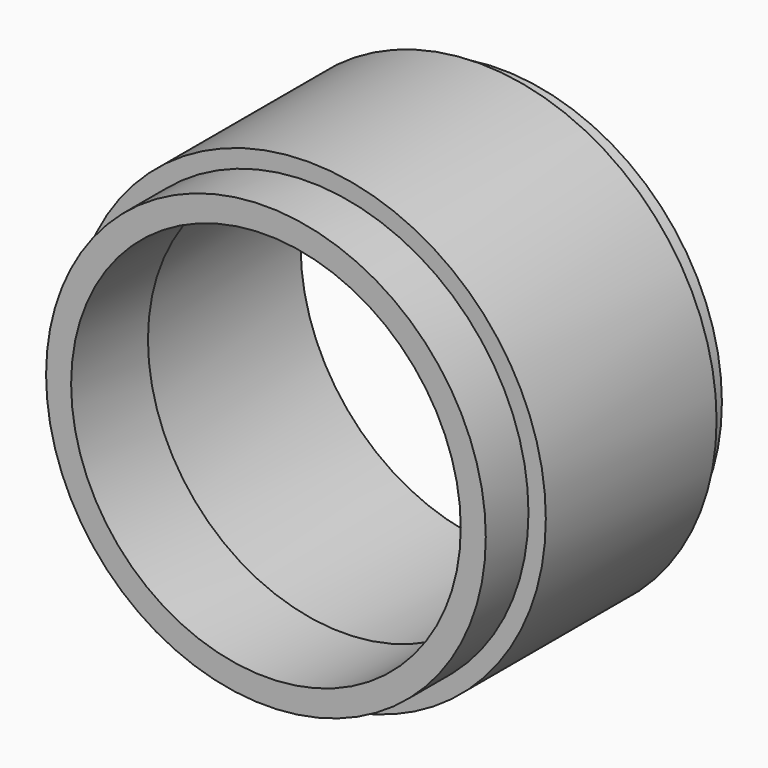
from build123d import *

# Parameters (mm, degrees)
F0_R     = 44.45
F0_R_2   = 36.51
F1_DEPTH = 55
F2_R     = 44.45
F2_R_2   = 41.2
F3_DEPTH = 10
F4_R     = 44.45
F4_R_2   = 41.45
F5_DEPTH = 5
F4_R_3   = 37.5
F4_R_4   = 36.51
F6_DEPTH = 37


with BuildPart() as f1:
    # F0 (on Front) → F1 (new body)
    with BuildSketch(Plane.XZ):
        Circle(F0_R)
        Circle(F0_R_2, mode=Mode.SUBTRACT)
    extrude(amount=F1_DEPTH)

    # F2 (on face) → F3 (cut)
    with BuildSketch(Plane.XZ.offset(55)):
        Circle(F2_R)
        Circle(F2_R_2, mode=Mode.SUBTRACT)
    extrude(amount=-F3_DEPTH, mode=Mode.SUBTRACT)

    # F4 (on face) → F5 (cut)
    with BuildSketch(Plane(origin=(0, 0, 0), x_dir=(-1, 0, 0), z_dir=(0, 1, 0))):
        Circle(F4_R)
        Circle(F4_R_2, mode=Mode.SUBTRACT)
    extrude(amount=-F5_DEPTH, mode=Mode.SUBTRACT)

    # F4 (on face) → F6 (cut)
    with BuildSketch(Plane(origin=(0, 0, 0), x_dir=(-1, 0, 0), z_dir=(0, 1, 0))):
        Circle(F4_R_3)
        Circle(F4_R_4, mode=Mode.SUBTRACT)
    extrude(amount=-F6_DEPTH, mode=Mode.SUBTRACT)


solid = f1.part
